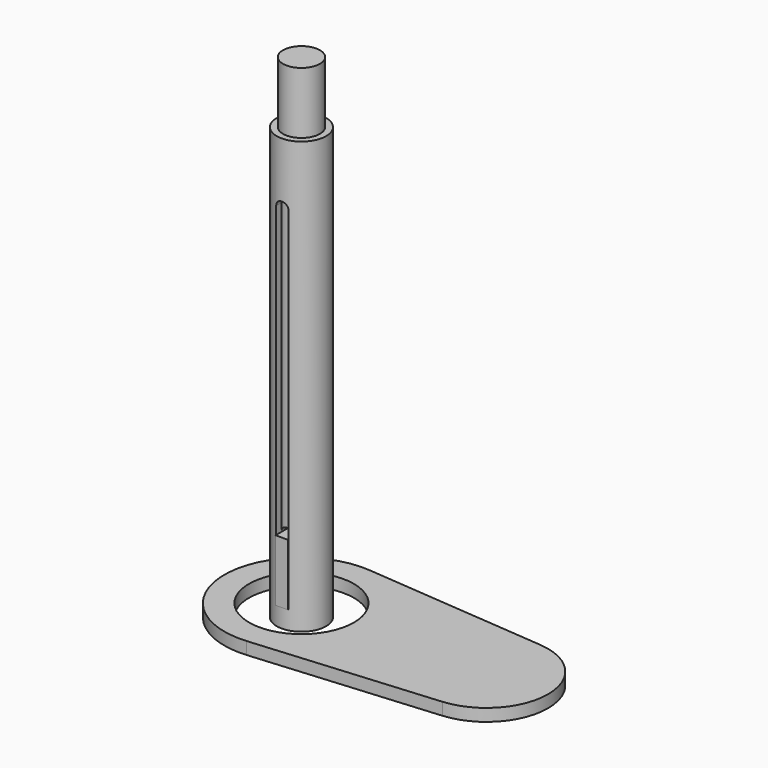
from build123d import *

# Parameters (mm, degrees)
F0_R      = 4
F0_R_2    = 3
F1_DEPTH  = 70
F3_DEPTH  = 12.5
F4_R      = 3
F5_DEPTH  = 80
F8_DEPTH  = 12.5
F6_W      = 2
F6_H      = 10
F9_DEPTH  = 4
F10_R     = 8.5
F11_DEPTH = 2


with BuildPart() as f1:
    # F0 (on Top) → F1 (new body)
    with BuildSketch(Plane.XY):
        Circle(F0_R)
        Circle(F0_R_2, mode=Mode.SUBTRACT)
    extrude(amount=F1_DEPTH)

    # F2 (on Front) → F3 (cut, symmetric)
    with BuildSketch(Plane.XZ):
        with BuildLine():
            ThreePointArc((1, 60), (0, 61), (-1, 60))
            Line((-1, 60), (-1, 10))
            ThreePointArc((-1, 10), (0, 9), (1, 10))
            Line((1, 10), (1, 60))
        make_face()
    extrude(amount=F3_DEPTH, both=True, mode=Mode.SUBTRACT)


with BuildPart() as f5:
    # F4 (on Top) → F5 (new body)
    with BuildSketch(Plane.XY):
        Circle(F4_R)
    extrude(amount=F5_DEPTH)

    # F7 (on Front) → F8 (cut, symmetric)
    with BuildSketch(Plane.XZ):
        with BuildLine():
            ThreePointArc((1, 13), (0, 14), (-1, 13))
            Line((-1, 13), (-1, 3))
            ThreePointArc((-1, 3), (0, 2), (1, 3))
            Line((1, 3), (1, 13))
        make_face()
    extrude(amount=F8_DEPTH, both=True, mode=Mode.SUBTRACT)


with BuildPart() as f9:
    # F6 (on Front) → F9 (new body, symmetric)
    with BuildSketch(Plane.XZ):
        with Locations((0, 8)):
            Rectangle(F6_W, F6_H)
    extrude(amount=F9_DEPTH, both=True)


with BuildPart() as f11:
    # F10 (on Top) → F11 (new body)
    with BuildSketch(Plane.XY):
        with BuildLine():
            ThreePointArc((40, 0), (37.3598007219, 6.7700320039), (30.8333333333, 9.9652172859))
            ThreePointArc((30.8333333333, 9.9652172859), (20, 0), (30.8333333333, -9.9652172859))
            ThreePointArc((30.8333333333, -9.9652172859), (37.3598007219, -6.7700320039), (40, 0))
        make_face()
        with BuildLine():
            ThreePointArc((1.0416666667, 12.4565216074), (9.1997509024, 8.4625400048), (12.5, 0))
            ThreePointArc((12.5, 0), (9.1997509024, -8.4625400048), (1.0416666667, -12.4565216074))
            Line((1.0416666667, -12.4565216074), (30.8333333333, -9.9652172859))
            ThreePointArc((30.8333333333, -9.9652172859), (20, 0), (30.8333333333, 9.9652172859))
            Line((30.8333333333, 9.9652172859), (1.0416666667, 12.4565216074))
        make_face()
        with BuildLine():
            ThreePointArc((1.0416666667, -12.4565216074), (9.1997509024, -8.4625400048), (12.5, 0))
            ThreePointArc((12.5, 0), (9.1997509024, 8.4625400048), (1.0416666667, 12.4565216074))
            ThreePointArc((1.0416666667, 12.4565216074), (-12.5, 0), (1.0416666667, -12.4565216074))
        make_face()
        Circle(F10_R, mode=Mode.SUBTRACT)
    extrude(amount=F11_DEPTH)


solid = Compound([f1.part, f5.part, f9.part, f11.part])
